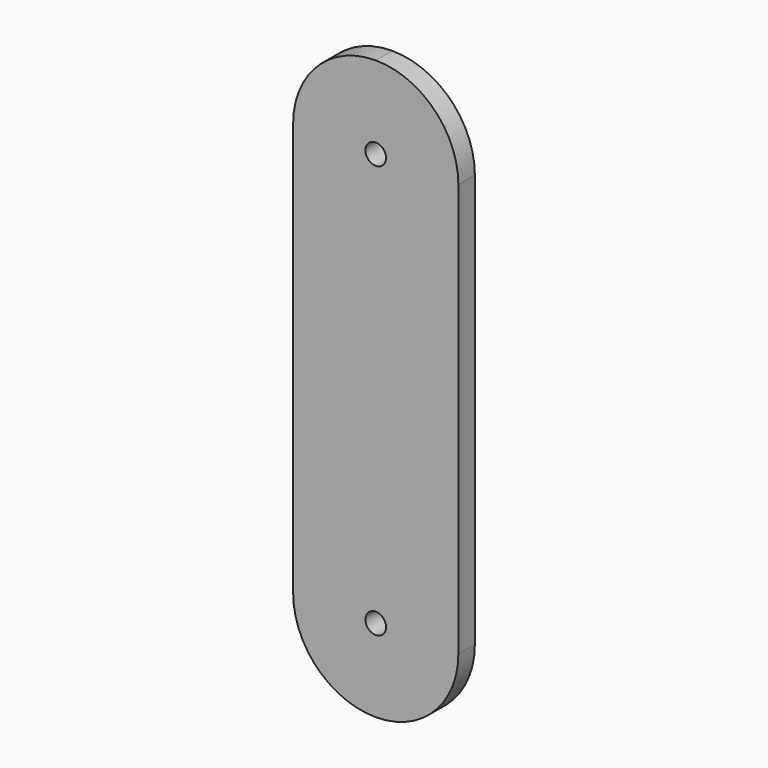
from build123d import *

# Parameters (mm, degrees)
F0_R     = 1.5875
F1_DEPTH = 1.5875


with BuildPart() as f1:
    # F0 (on Front) → F1 (new body, symmetric)
    with BuildSketch(Plane.XZ):
        with BuildLine():
            Line((12.7, -31.75), (12.7, 31.75))
            ThreePointArc((12.7, 31.75), (8.980256, 40.730256), (0, 44.45))
            ThreePointArc((0, 44.45), (-8.980256, 40.730256), (-12.7, 31.75))
            Line((-12.7, 31.75), (-12.7, -31.75))
            ThreePointArc((-12.7, -31.75), (-8.980256, -40.730256), (0, -44.45))
            ThreePointArc((0, -44.45), (8.980256, -40.730256), (12.7, -31.75))
        make_face()
        with Locations((0, -31.75)):
            Circle(F0_R, mode=Mode.SUBTRACT)
        with Locations((0, 31.75)):
            Circle(F0_R, mode=Mode.SUBTRACT)
    extrude(amount=F1_DEPTH, both=True)


solid = f1.part
